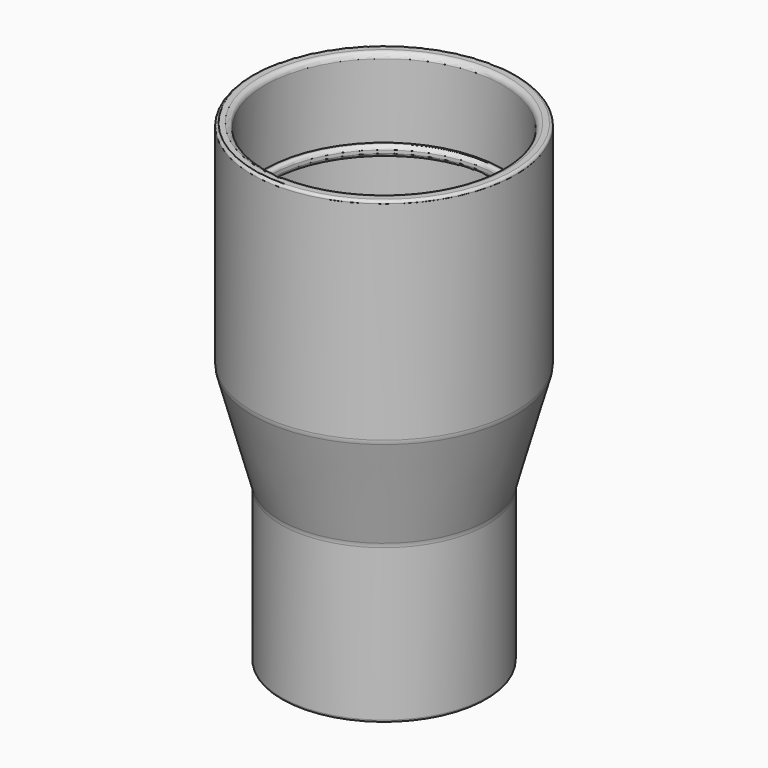
from build123d import *


with BuildPart() as f1:
    # F0 (on Front) → F1 (revolve)
    with BuildSketch(Plane.XZ):
        with BuildLine():
            Line((-22.5, 11.48838), (-22.5, 25.48838))
            ThreePointArc((-22.5, 25.48838), (-22.792893, 26.195487), (-23.5, 26.48838))
            Line((-23.5, 26.48838), (-24.499999, 26.48838))
            ThreePointArc((-24.499999, 26.48838), (-24.853553, 26.341933), (-24.999999, 25.98838))
            Line((-24.999999, 25.98838), (-24.999999, -13.444123))
            ThreePointArc((-24.999999, -13.444123), (-24.973032, -13.845465), (-24.892615, -14.239592))
            Line((-24.892615, -14.239592), (-19.607383, -33.458619))
            ThreePointArc((-19.607383, -33.458619), (-19.526966, -33.852746), (-19.499999, -34.254089))
            Line((-19.499999, -34.254089), (-19.499999, -63.01162))
            ThreePointArc((-19.499999, -63.01162), (-19.353553, -63.365174), (-18.999999, -63.51162))
            Line((-18.999999, -63.51162), (-18, -63.51162))
            ThreePointArc((-18, -63.51162), (-17.292893, -63.218727), (-17, -62.51162))
            Line((-17, -62.51162), (-17, -33.916603))
            ThreePointArc((-17, -33.916603), (-17.026967, -33.515261), (-17.107384, -33.121134))
            Line((-17.107384, -33.121134), (-22.392616, -13.902107))
            ThreePointArc((-22.392616, -13.902107), (-22.473033, -13.50798), (-22.5, -13.106637))
            Line((-22.5, -13.106637), (-22.5, 9.48838))
            Line((-22.5, 9.48838), (-22.5, 11.48838))
        make_face()
        with BuildLine():
            Line((-22.2, 11.48838), (-22.5, 11.48838))
            Line((-22.5, 11.48838), (-22.5, 9.48838))
            Line((-22.5, 9.48838), (-22.2, 9.48838))
            ThreePointArc((-22.2, 9.48838), (-21.705025, 9.693405), (-21.5, 10.18838))
            Line((-21.5, 10.18838), (-21.5, 10.78838))
            ThreePointArc((-21.5, 10.78838), (-21.705025, 11.283355), (-22.2, 11.48838))
        make_face()
    revolve(axis=Axis((0, 0, -49.657743), (0, 0, -1)))


solid = f1.part
